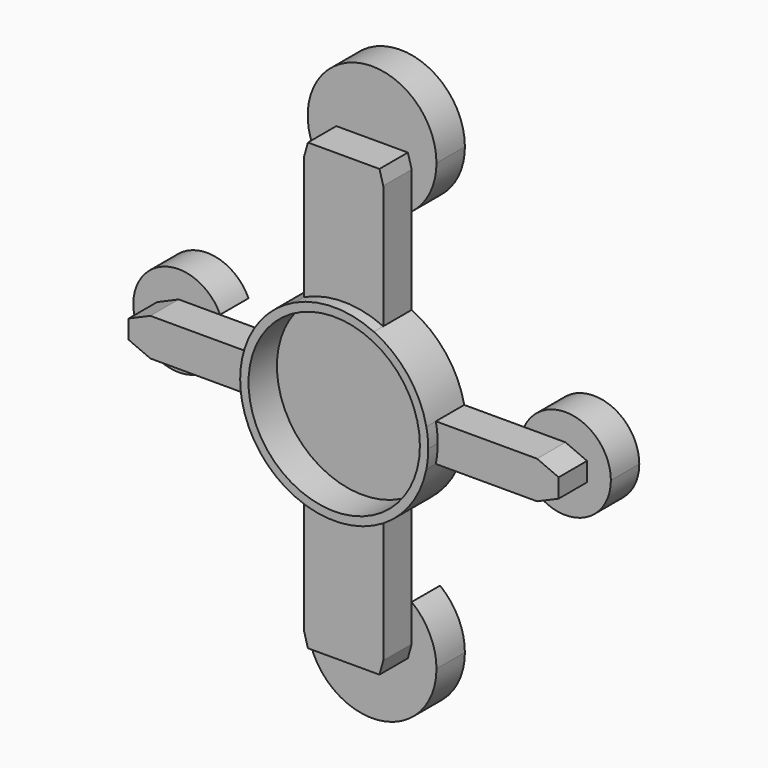
from build123d import *

# Parameters (mm, degrees)
F0_R     = 45.9739525872
F1_DEPTH = 6.35
F2_DEPTH = 25.4
F3_DEPTH = 19.05
F4_DEPTH = 19.05


with BuildPart() as f1:
    # F0 (on Front) → F1 (new body)
    with BuildSketch(Plane.XZ):
        Circle(F0_R)
    extrude(amount=F1_DEPTH)


with BuildPart() as f2:
    # F0 (on Front) → F2 (new body)
    with BuildSketch(Plane.XZ):
        with BuildLine():
            ThreePointArc((49.4328212787, -10.0663737277), (50.1930812917, -5.0586846158), (50.4473557245, 0))
            ThreePointArc((50.4473557245, 0), (50.1930812917, 5.0586846158), (49.4328212787, 10.0663737277))
            ThreePointArc((49.4328212787, 10.0663737277), (39.5844821809, 31.2730630106), (21.2324433808, 45.7615455124))
            ThreePointArc((21.2324433808, 45.7615455124), (0, 50.4473557245), (-21.2324433808, 45.7615455124))
            ThreePointArc((-21.2324433808, 45.7615455124), (-39.5844821809, 31.2730630106), (-49.4328212787, 10.0663737277))
            ThreePointArc((-49.4328212787, 10.0663737277), (-50.4473557245, 0), (-49.4328212787, -10.0663737277))
            ThreePointArc((-49.4328212787, -10.0663737277), (-39.5844821809, -31.2730630106), (-21.2324433808, -45.7615455124))
            ThreePointArc((-21.2324433808, -45.7615455124), (0, -50.4473557245), (21.2324433808, -45.7615455124))
            ThreePointArc((21.2324433808, -45.7615455124), (39.5844821809, -31.2730630106), (49.4328212787, -10.0663737277))
        make_face()
        Circle(F0_R, mode=Mode.SUBTRACT)
    extrude(amount=F2_DEPTH)


with BuildPart() as f3:
    # F0 (on Front) → F3 (new body)
    with BuildSketch(Plane.XZ):
        with BuildLine():
            ThreePointArc((-79.3750054435, 0), (-79.9253862812, 5.1495078004), (-81.5516639655, 10.0663737277))
            Line((-81.5516639655, 10.0663737277), (-103.7402702002, 10.0663737277))
            Line((-103.7402702002, 10.0663737277), (-115.3241221478, 5.0522867017))
            Line((-115.3241221478, 5.0522867017), (-115.3241221478, -5.0522867017))
            Line((-115.3241221478, -5.0522867017), (-103.7402702002, -10.0663737277))
            Line((-103.7402702002, -10.0663737277), (-81.5516639655, -10.0663737277))
            ThreePointArc((-81.5516639655, -10.0663737277), (-79.9253862812, -5.1495078004), (-79.3750054435, 0))
        make_face()
        with BuildLine():
            ThreePointArc((-49.4328212787, -10.0663737277), (-50.4473557245, 0), (-49.4328212787, 10.0663737277))
            Line((-49.4328212787, 10.0663737277), (-81.5516639655, 10.0663737277))
            ThreePointArc((-81.5516639655, 10.0663737277), (-79.9253862812, 5.1495078004), (-79.3750054435, 0))
            ThreePointArc((-79.3750054435, 0), (-79.9253862812, -5.1495078004), (-81.5516639655, -10.0663737277))
            Line((-81.5516639655, -10.0663737277), (-49.4328212787, -10.0663737277))
        make_face()
    extrude(amount=F3_DEPTH)


with BuildPart() as f3b:
    # F0 (on Front) → F3, piece 2 (new body)
    with BuildSketch(Plane.XZ):
        with BuildLine():
            ThreePointArc((49.4328212787, 10.0663737277), (50.1930812917, 5.0586846158), (50.4473557245, 0))
            ThreePointArc((50.4473557245, 0), (50.1930812917, -5.0586846158), (49.4328212787, -10.0663737277))
            Line((49.4328212787, -10.0663737277), (81.5516639655, -10.0663737277))
            ThreePointArc((81.5516639655, -10.0663737277), (79.3750054435, 0), (81.5516639655, 10.0663737277))
            Line((81.5516639655, 10.0663737277), (49.4328212787, 10.0663737277))
        make_face()
        with BuildLine():
            Line((103.7402702002, 10.0663737277), (81.5516639655, 10.0663737277))
            ThreePointArc((81.5516639655, 10.0663737277), (79.3750054435, 0), (81.5516639655, -10.0663737277))
            Line((81.5516639655, -10.0663737277), (103.7402702002, -10.0663737277))
            Line((103.7402702002, -10.0663737277), (115.3241221478, -5.0522867017))
            Line((115.3241221478, -5.0522867017), (115.3241221478, 5.0522867017))
            Line((115.3241221478, 5.0522867017), (103.7402702002, 10.0663737277))
        make_face()
    extrude(amount=F3_DEPTH)


with BuildPart() as f3c:
    # F0 (on Front) → F3, piece 3 (new body)
    with BuildSketch(Plane.XZ):
        with BuildLine():
            ThreePointArc((-21.2324433808, 45.7615455124), (0, 50.4473557245), (21.2324433808, 45.7615455124))
            Line((21.2324433808, 45.7615455124), (21.2324433808, 92.1809940965))
            ThreePointArc((21.2324433808, 92.1809940965), (0, 84.8849892461), (-21.2324433808, 92.1809940965))
            Line((-21.2324433808, 92.1809940965), (-21.2324433808, 45.7615455124))
        make_face()
        with BuildLine():
            ThreePointArc((-21.2324433808, 92.1809940965), (0, 84.8849892461), (21.2324433808, 92.1809940965))
            Line((21.2324433808, 92.1809940965), (21.2324433808, 112.0817683699))
            Line((21.2324433808, 112.0817683699), (19.1925481176, 119.4277526507))
            Line((19.1925481176, 119.4277526507), (0, 119.4277526507))
            Line((0, 119.4277526507), (-19.1925481176, 119.4277526507))
            Line((-19.1925481176, 119.4277526507), (-21.2324433808, 112.0817683699))
            Line((-21.2324433808, 112.0817683699), (-21.2324433808, 92.1809940965))
        make_face()
    extrude(amount=F3_DEPTH)


with BuildPart() as f3d:
    # F0 (on Front) → F3, piece 4 (new body)
    with BuildSketch(Plane.XZ):
        with BuildLine():
            Line((21.2324433808, -92.1809940965), (21.2324433808, -45.7615455124))
            ThreePointArc((21.2324433808, -45.7615455124), (0, -50.4473557245), (-21.2324433808, -45.7615455124))
            Line((-21.2324433808, -45.7615455124), (-21.2324433808, -92.1809940965))
            ThreePointArc((-21.2324433808, -92.1809940965), (0, -84.8849892461), (21.2324433808, -92.1809940965))
        make_face()
        with BuildLine():
            Line((21.2324433808, -112.0817683699), (21.2324433808, -92.1809940965))
            ThreePointArc((21.2324433808, -92.1809940965), (0, -84.8849892461), (-21.2324433808, -92.1809940965))
            Line((-21.2324433808, -92.1809940965), (-21.2324433808, -112.0817683699))
            Line((-21.2324433808, -112.0817683699), (-19.1925481176, -119.4277526507))
            Line((-19.1925481176, -119.4277526507), (0, -119.4277526507))
            Line((0, -119.4277526507), (19.1925481176, -119.4277526507))
            Line((19.1925481176, -119.4277526507), (21.2324433808, -112.0817683699))
        make_face()
    extrude(amount=F3_DEPTH)


with BuildPart() as f4:
    # F0 (on Front) → F4 (new body)
    with BuildSketch(Plane.XZ):
        with BuildLine():
            Line((21.2324433808, 112.0817683699), (21.2324433808, 92.1809940965))
            ThreePointArc((21.2324433808, 92.1809940965), (31.0373144121, 104.2657073496), (34.5427634046, 119.4277526507))
            ThreePointArc((34.5427634046, 119.4277526507), (-15.1620453011, 150.4650670629), (-21.2324433808, 92.1809940965))
            Line((-21.2324433808, 92.1809940965), (-21.2324433808, 112.0817683699))
            Line((-21.2324433808, 112.0817683699), (-19.1925481176, 119.4277526507))
            Line((-19.1925481176, 119.4277526507), (0, 119.4277526507))
            Line((0, 119.4277526507), (19.1925481176, 119.4277526507))
            Line((19.1925481176, 119.4277526507), (21.2324433808, 112.0817683699))
        make_face()
    extrude(amount=-F4_DEPTH)


with BuildPart() as f4b:
    # F0 (on Front) → F4, piece 2 (new body)
    with BuildSketch(Plane.XZ):
        with BuildLine():
            ThreePointArc((34.5427634046, -119.4277526507), (31.0373144121, -104.2657073496), (21.2324433808, -92.1809940965))
            Line((21.2324433808, -92.1809940965), (21.2324433808, -112.0817683699))
            Line((21.2324433808, -112.0817683699), (19.1925481176, -119.4277526507))
            Line((19.1925481176, -119.4277526507), (0, -119.4277526507))
            Line((0, -119.4277526507), (-19.1925481176, -119.4277526507))
            Line((-19.1925481176, -119.4277526507), (-21.2324433808, -112.0817683699))
            Line((-21.2324433808, -112.0817683699), (-21.2324433808, -92.1809940965))
            ThreePointArc((-21.2324433808, -92.1809940965), (-15.1620453011, -150.4650670629), (34.5427634046, -119.4277526507))
        make_face()
    extrude(amount=-F4_DEPTH)


with BuildPart() as f4c:
    # F0 (on Front) → F4, piece 3 (new body)
    with BuildSketch(Plane.XZ):
        with BuildLine():
            Line((-103.7402702002, 10.0663737277), (-81.5516639655, 10.0663737277))
            ThreePointArc((-81.5516639655, 10.0663737277), (-128.1055349569, 0), (-81.5516639655, -10.0663737277))
            Line((-81.5516639655, -10.0663737277), (-103.7402702002, -10.0663737277))
            Line((-103.7402702002, -10.0663737277), (-115.3241221478, -5.0522867017))
            Line((-115.3241221478, -5.0522867017), (-115.3241221478, 5.0522867017))
            Line((-115.3241221478, 5.0522867017), (-103.7402702002, 10.0663737277))
        make_face()
    extrude(amount=-F4_DEPTH)


with BuildPart() as f4d:
    # F0 (on Front) → F4, piece 4 (new body)
    with BuildSketch(Plane.XZ):
        with BuildLine():
            ThreePointArc((128.1055349569, 0), (108.8897780006, 23.814883919), (81.5516639655, 10.0663737277))
            Line((81.5516639655, 10.0663737277), (103.7402702002, 10.0663737277))
            Line((103.7402702002, 10.0663737277), (115.3241221478, 5.0522867017))
            Line((115.3241221478, 5.0522867017), (115.3241221478, -5.0522867017))
            Line((115.3241221478, -5.0522867017), (103.7402702002, -10.0663737277))
            Line((103.7402702002, -10.0663737277), (81.5516639655, -10.0663737277))
            ThreePointArc((81.5516639655, -10.0663737277), (108.8897780006, -23.814883919), (128.1055349569, 0))
        make_face()
    extrude(amount=-F4_DEPTH)


solid = Compound([f1.part, f2.part, f3.part, f3b.part, f3c.part, f3d.part, f4.part, f4b.part, f4c.part, f4d.part])
